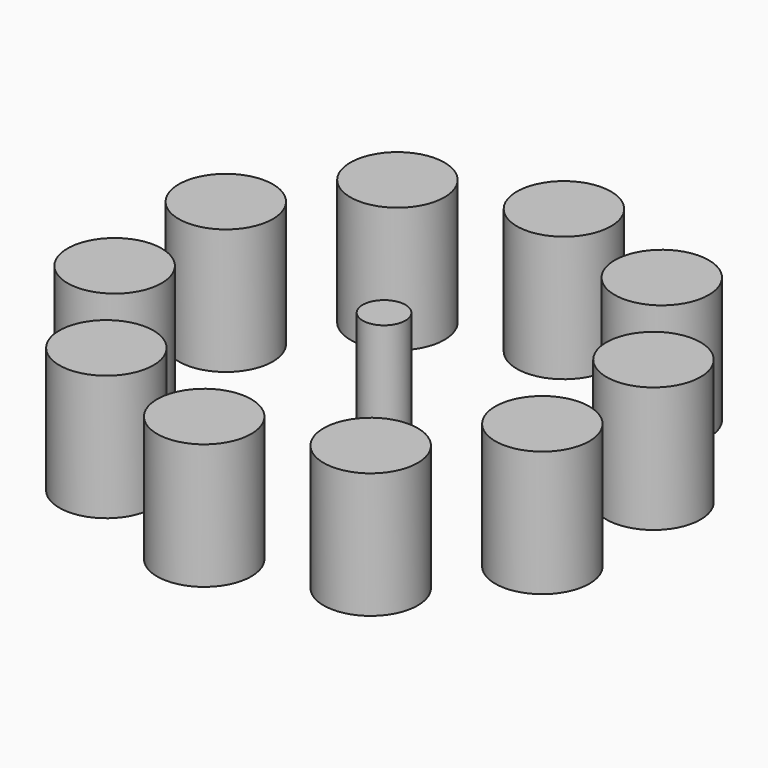
from build123d import *

# Parameters (mm, degrees)
F0_R     = 4.5
F0_R_2   = 2.044694
F1_DEPTH = 12


with BuildPart() as f1:
    # F0 (on Top) → F1 (new body)
    with BuildSketch(Plane.XY):
        with Locations((12.637383, -17.393865)):
            Circle(F0_R)
        with Locations((20.447715, -6.643865)):
            Circle(F0_R)
        with Locations((0, -21.5)):
            Circle(F0_R)
        with Locations((20.447715, 6.643865)):
            Circle(F0_R)
        with Locations((12.637383, 17.393865)):
            Circle(F0_R)
        with Locations((-12.637383, -17.393865)):
            Circle(F0_R)
        with Locations((-20.447715, -6.643865)):
            Circle(F0_R)
        with Locations((-20.447715, 6.643865)):
            Circle(F0_R)
        with Locations((-12.637383, 17.393865)):
            Circle(F0_R)
        with Locations((0, 21.5)):
            Circle(F0_R)
        Circle(F0_R_2)
    extrude(amount=F1_DEPTH)


solid = f1.part
